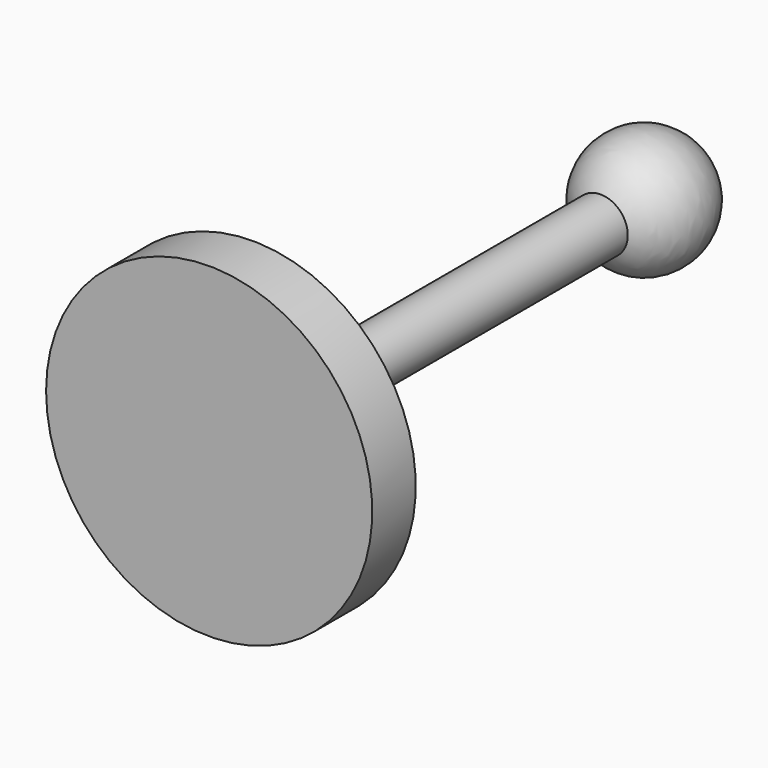
from build123d import *


with BuildPart() as f1:
    # F0 (on Top) → F1 (revolve)
    with BuildSketch(Plane.XY):
        with BuildLine():
            Line((-30, 0), (0, 0))
            Line((0, 0), (0, 100))
            Line((0, 100), (0, 111.18034))
            ThreePointArc((0, 111.18034), (-10.881254, 102.568716), (-5, 90))
            Line((-5, 90), (-5, 10))
            Line((-5, 10), (-30, 10))
            Line((-30, 10), (-30, 0))
        make_face()
    revolve(axis=Axis((0, 50, 0), (0, 1, 0)))


solid = f1.part
